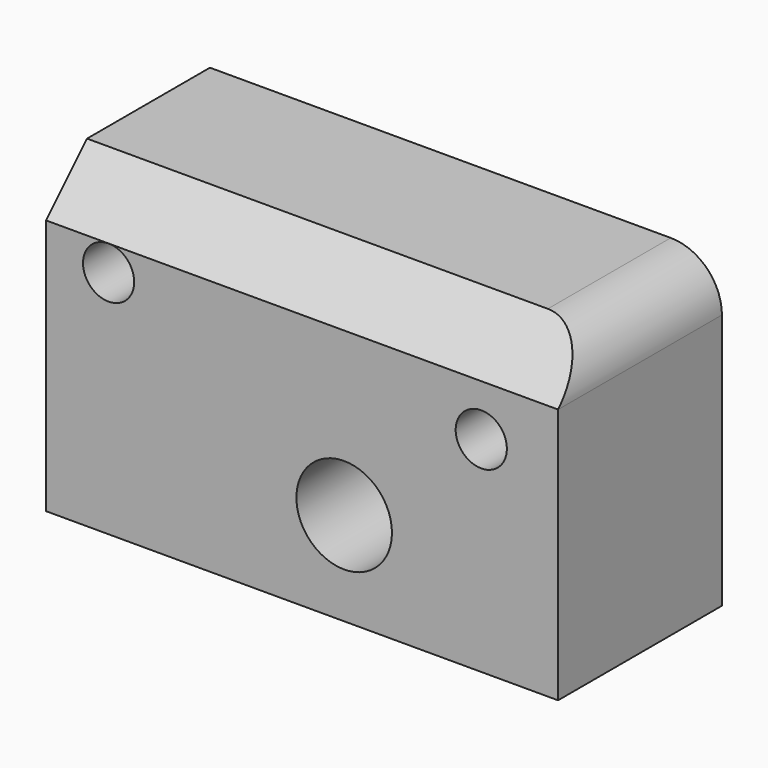
from build123d import *

# Parameters (mm, degrees)
F0_W     = 127
F0_H     = 76.2
F0_R     = 6.35
F1_DEPTH = 50.8
F2_R     = 11.851043
F3_DEPTH = 71.628
F4_SIZE  = 12.7
F5_R     = 12.7


with BuildPart() as f1:
    # F0 (on Front) → F1 (new body)
    with BuildSketch(Plane.XZ):
        with Locations((10.547942, -5.392222)):
            Rectangle(F0_W, F0_H)
        with Locations((-37.448946, 13.657778)):
            Circle(F0_R, mode=Mode.SUBTRACT)
        with Locations((54.997942, 7.307778)):
            Circle(F0_R, mode=Mode.SUBTRACT)
    extrude(amount=F1_DEPTH)

    # F2 (on face) → F3 (cut)
    with BuildSketch(Plane.XZ.offset(50.8)):
        with Locations((20.991273, -20.324083)):
            Circle(F2_R)
    extrude(amount=-F3_DEPTH, mode=Mode.SUBTRACT)

    # F4
    f4_edges = [f1.edges().sort_by_distance(p)[0] for p in [
        (10.547942, -50.8, 32.707778),
    ]]
    chamfer(f4_edges, length=F4_SIZE)

    # F5
    f5_edges = [f1.edges().sort_by_distance(p)[0] for p in [
        (74.047942, -19.05, 32.707778),
    ]]
    fillet(f5_edges, radius=F5_R)


solid = f1.part
